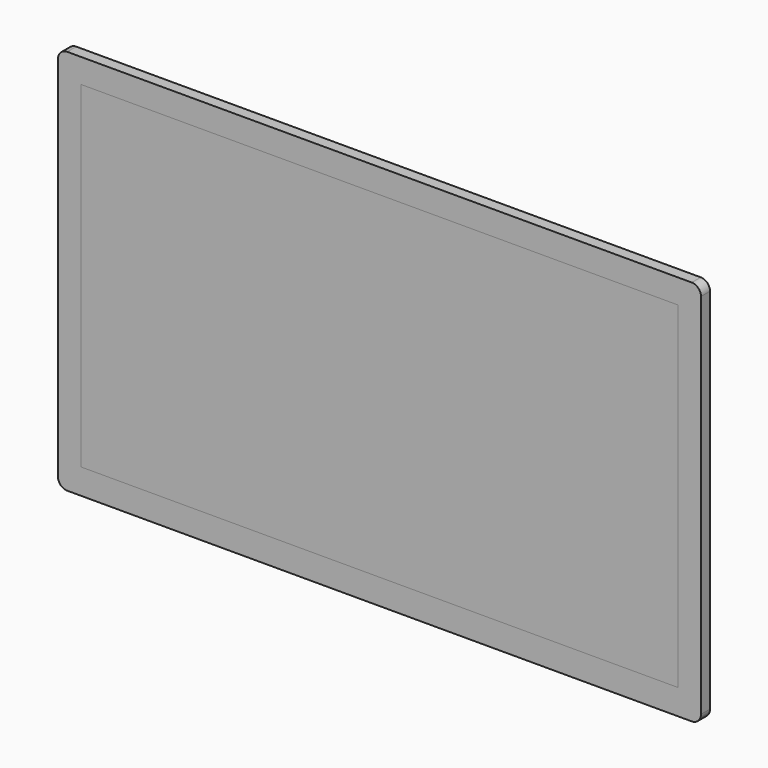
from build123d import *

# Parameters (mm, degrees)
F0_W     = 529
F0_H     = 298.5
F1_DEPTH = 10
F2_DEPTH = 10


with BuildPart() as f1:
    # F0 (on Front) → F1 (new body)
    with BuildSketch(Plane.XZ):
        with BuildLine():
            Line((298.946819, 187.258719), (-254.653181, 187.258719))
            ThreePointArc((-254.653181, 187.258719), (-260.451456, 184.856995), (-262.853181, 179.058719))
            Line((-262.853181, 179.058719), (-262.853181, -147.041281))
            ThreePointArc((-262.853181, -147.041281), (-260.451456, -152.839556), (-254.653181, -155.241281))
            Line((-254.653181, -155.241281), (298.946819, -155.241281))
            ThreePointArc((298.946819, -155.241281), (304.745095, -152.839556), (307.146819, -147.041281))
            Line((307.146819, -147.041281), (307.146819, 179.058719))
            ThreePointArc((307.146819, 179.058719), (304.745095, 184.856995), (298.946819, 187.258719))
        make_face()
        with Locations((22.146819, 16.508719)):
            Rectangle(F0_W, F0_H, mode=Mode.SUBTRACT)
    extrude(amount=F1_DEPTH)


with BuildPart() as f2:
    # F0 (on Front) → F2 (new body)
    with BuildSketch(Plane.XZ):
        with Locations((22.146819, 16.508719)):
            Rectangle(F0_W, F0_H)
    extrude(amount=F2_DEPTH)


solid = Compound([f1.part, f2.part])
